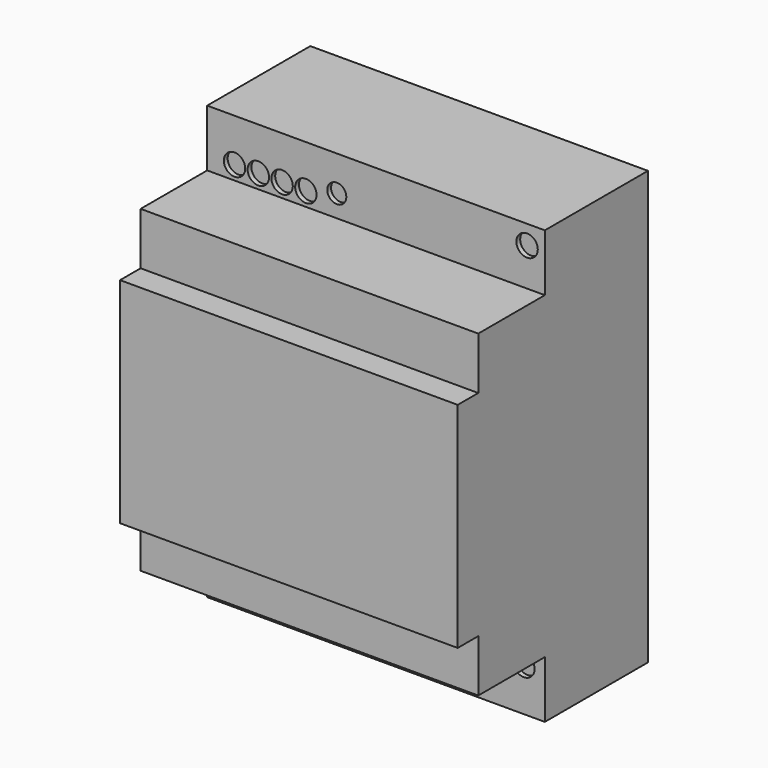
from build123d import *

# Parameters (mm, degrees)
F0_W     = 71
F0_H     = 91
F1_DEPTH = 50
F2_W     = 71
F2_H     = 12
F3_DEPTH = 22.9
F4_W     = 71
F4_H     = 11
F5_DEPTH = 5.4
F6_R     = 2.25
F6_R_2   = 2
F7_DEPTH = 1


with BuildPart() as f1:
    # F0 (on Front) → F1 (new body)
    with BuildSketch(Plane.XZ):
        Rectangle(F0_W, F0_H)
    extrude(amount=F1_DEPTH)

    # F2 (on face) → F3 (cut)
    with BuildSketch(Plane.XZ.offset(50)):
        with Locations((0, 39.5)):
            Rectangle(F2_W, F2_H)
        with Locations((0, -39.5)):
            Rectangle(F2_W, F2_H)
    extrude(amount=-F3_DEPTH, mode=Mode.SUBTRACT)

    # F4 (on face) → F5 (cut)
    with BuildSketch(Plane.XZ.offset(50)):
        with Locations((0, 28)):
            Rectangle(F4_W, F4_H)
        with Locations((0, -28)):
            Rectangle(F4_W, F4_H)
    extrude(amount=-F5_DEPTH, mode=Mode.SUBTRACT)

    # F6 (on face) → F7 (cut)
    with BuildSketch(Plane.XZ.offset(27.1)):
        with Locations((-29.748868, 36.449973)):
            Circle(F6_R)
        with Locations((-24.748868, 36.449973)):
            Circle(F6_R)
        with Locations((-19.748868, 36.449973)):
            Circle(F6_R)
        with Locations((-14.748868, 36.449973)):
            Circle(F6_R)
        with Locations((-8.246585, 38.107269)):
            Circle(F6_R_2)
        with Locations((31.766169, 41.469164)):
            Circle(F6_R)
        with Locations((-31.138731, -41.702226)):
            Circle(F6_R)
        with Locations((20.723933, -36.418043)):
            Circle(F6_R)
        with Locations((31.085899, -36.418043)):
            Circle(F6_R)
    extrude(amount=-F7_DEPTH, mode=Mode.SUBTRACT)


solid = f1.part
